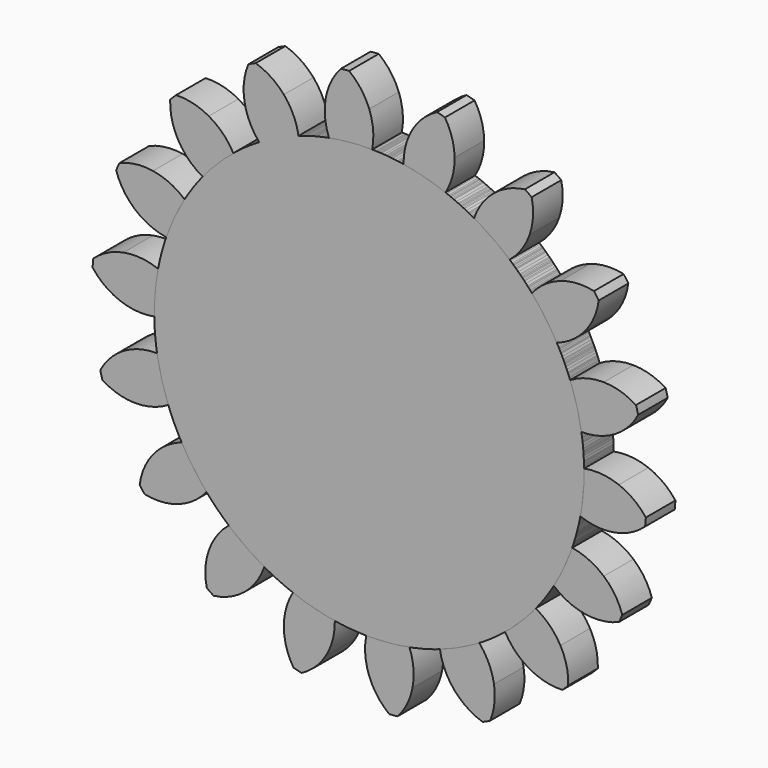
from build123d import *

# Parameters (mm, degrees)
F1_DEPTH = 40
F2_COUNT = 18
F2_ANGLE = 340


with BuildPart() as f1:
    # F0 (on Front) → F1 (new body)
    with BuildSketch(Plane.XZ):
        with BuildLine():
            ThreePointArc((-43.547272, 228.385387), (-148.208484, -179.138202), (232.5, 0))
            ThreePointArc((232.5, 0), (165.539306, 163.257429), (3.226984, 232.477604))
            ThreePointArc((3.226984, 232.477604), (-20.26371, 231.615267), (-43.547272, 228.385387))
        make_face()
        with BuildLine():
            ThreePointArc((-43.547272, 228.385387), (-20.26371, 231.615267), (3.226984, 232.477604))
            ThreePointArc((3.226984, 232.477604), (4.240072, 251.464692), (0, 270))
            ThreePointArc((0, 270), (-8.830446, 286.10821), (-21.702517, 299.213971))
            ThreePointArc((-21.702517, 299.213971), (-26.150072, 298.896691), (-30.585153, 298.436842))
            ThreePointArc((-30.585153, 298.436842), (-40.985878, 283.294974), (-46.885008, 265.898093))
            ThreePointArc((-46.885008, 265.898093), (-47.842041, 246.908098), (-43.547272, 228.385387))
        make_face()
    extrude(amount=F1_DEPTH)


with BuildPart() as f2_1:
    # F2: instance of F1
    add(f1.part.rotate(Axis((0, 0, 0), (0, 1, 0)), 1 * F2_ANGLE / (F2_COUNT - 1)))


with BuildPart() as f2_2:
    # F2: instance of F1
    add(f1.part.rotate(Axis((0, 0, 0), (0, 1, 0)), 2 * F2_ANGLE / (F2_COUNT - 1)))


with BuildPart() as f2_3:
    # F2: instance of F1
    add(f1.part.rotate(Axis((0, 0, 0), (0, 1, 0)), 3 * F2_ANGLE / (F2_COUNT - 1)))


with BuildPart() as f2_4:
    # F2: instance of F1
    add(f1.part.rotate(Axis((0, 0, 0), (0, 1, 0)), 4 * F2_ANGLE / (F2_COUNT - 1)))


with BuildPart() as f2_5:
    # F2: instance of F1
    add(f1.part.rotate(Axis((0, 0, 0), (0, 1, 0)), 5 * F2_ANGLE / (F2_COUNT - 1)))


with BuildPart() as f2_6:
    # F2: instance of F1
    add(f1.part.rotate(Axis((0, 0, 0), (0, 1, 0)), 6 * F2_ANGLE / (F2_COUNT - 1)))


with BuildPart() as f2_7:
    # F2: instance of F1
    add(f1.part.rotate(Axis((0, 0, 0), (0, 1, 0)), 7 * F2_ANGLE / (F2_COUNT - 1)))


with BuildPart() as f2_8:
    # F2: instance of F1
    add(f1.part.rotate(Axis((0, 0, 0), (0, 1, 0)), 8 * F2_ANGLE / (F2_COUNT - 1)))


with BuildPart() as f2_9:
    # F2: instance of F1
    add(f1.part.rotate(Axis((0, 0, 0), (0, 1, 0)), 9 * F2_ANGLE / (F2_COUNT - 1)))


with BuildPart() as f2_10:
    # F2: instance of F1
    add(f1.part.rotate(Axis((0, 0, 0), (0, 1, 0)), 10 * F2_ANGLE / (F2_COUNT - 1)))


with BuildPart() as f2_11:
    # F2: instance of F1
    add(f1.part.rotate(Axis((0, 0, 0), (0, 1, 0)), 11 * F2_ANGLE / (F2_COUNT - 1)))


with BuildPart() as f2_12:
    # F2: instance of F1
    add(f1.part.rotate(Axis((0, 0, 0), (0, 1, 0)), 12 * F2_ANGLE / (F2_COUNT - 1)))


with BuildPart() as f2_13:
    # F2: instance of F1
    add(f1.part.rotate(Axis((0, 0, 0), (0, 1, 0)), 13 * F2_ANGLE / (F2_COUNT - 1)))


with BuildPart() as f2_14:
    # F2: instance of F1
    add(f1.part.rotate(Axis((0, 0, 0), (0, 1, 0)), 14 * F2_ANGLE / (F2_COUNT - 1)))


with BuildPart() as f2_15:
    # F2: instance of F1
    add(f1.part.rotate(Axis((0, 0, 0), (0, 1, 0)), 15 * F2_ANGLE / (F2_COUNT - 1)))


with BuildPart() as f2_16:
    # F2: instance of F1
    add(f1.part.rotate(Axis((0, 0, 0), (0, 1, 0)), 16 * F2_ANGLE / (F2_COUNT - 1)))


with BuildPart() as f2_17:
    # F2: instance of F1
    add(f1.part.rotate(Axis((0, 0, 0), (0, 1, 0)), 17 * F2_ANGLE / (F2_COUNT - 1)))


solid = Compound([f1.part, f2_1.part, f2_2.part, f2_3.part, f2_4.part, f2_5.part, f2_6.part, f2_7.part, f2_8.part, f2_9.part, f2_10.part, f2_11.part, f2_12.part, f2_13.part, f2_14.part, f2_15.part, f2_16.part, f2_17.part])
